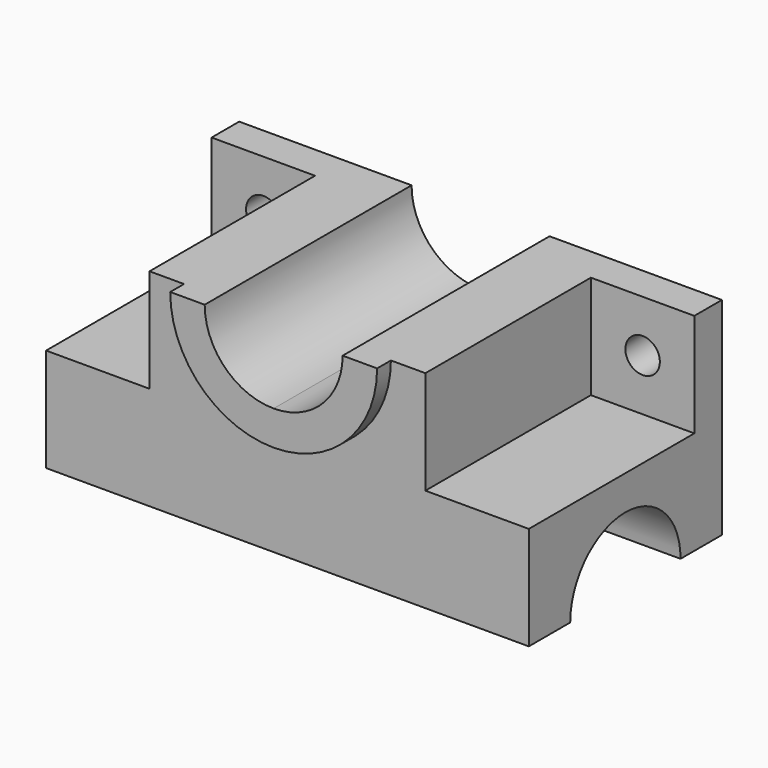
from build123d import *

# Parameters (mm, degrees)
F1_DEPTH = 35
F2_W     = 30
F2_H     = 30
F3_DEPTH = 60
F4_R     = 5
F5_DEPTH = 10.001
F7_DEPTH = 70.001
F8_DEPTH = 40


with BuildPart() as f1:
    # F0 (on Front) → F1 (new body, symmetric)
    with BuildSketch(Plane.XZ):
        with BuildLine():
            Line((0, 30), (0, 0))
            Line((0, 0), (70, 0))
            Line((70, 0), (70, 60))
            Line((70, 60), (30, 60))
            ThreePointArc((30, 60), (21.2132034356, 38.7867965644), (0, 30))
        make_face()
        with BuildLine():
            Line((0, 40), (0, 30))
            ThreePointArc((0, 30), (21.2132034356, 38.7867965644), (30, 60))
            Line((30, 60), (20, 60))
            ThreePointArc((20, 60), (14.1421356237, 45.8578643763), (0, 40))
        make_face()
    extrude(amount=F1_DEPTH, both=True)

    # F2 (on face) → F3 (cut)
    with BuildSketch(Plane.XZ.offset(35)):
        with Locations((55, 45)):
            Rectangle(F2_W, F2_H)
    extrude(amount=-F3_DEPTH, mode=Mode.SUBTRACT)

    # F4 (on face) → F5 (cut, through all)
    with BuildSketch(Plane.XZ.offset(-25)):
        with Locations((55, 45)):
            Circle(F4_R)
    extrude(amount=-F5_DEPTH, mode=Mode.SUBTRACT)

    # F6 (on face) → F7 (cut, through all)
    with BuildSketch(Plane.YZ.offset(70)):
        with BuildLine():
            Line((-20, 0), (20, 0))
            ThreePointArc((20, 0), (0, 20), (-20, 0))
        make_face()
    extrude(amount=-F7_DEPTH, mode=Mode.SUBTRACT)

    # F0 (on Front) → F8 (join)
    with BuildSketch(Plane.XZ):
        with BuildLine():
            Line((0, 40), (0, 30))
            ThreePointArc((0, 30), (21.2132034356, 38.7867965644), (30, 60))
            Line((30, 60), (20, 60))
            ThreePointArc((20, 60), (14.1421356237, 45.8578643763), (0, 40))
        make_face()
    extrude(amount=F8_DEPTH)

    # F9: F1 across plane


with BuildPart() as f1_1:
    add(f1.part)
    add(f1.part.mirror(Plane.YZ))


solid = f1_1.part
